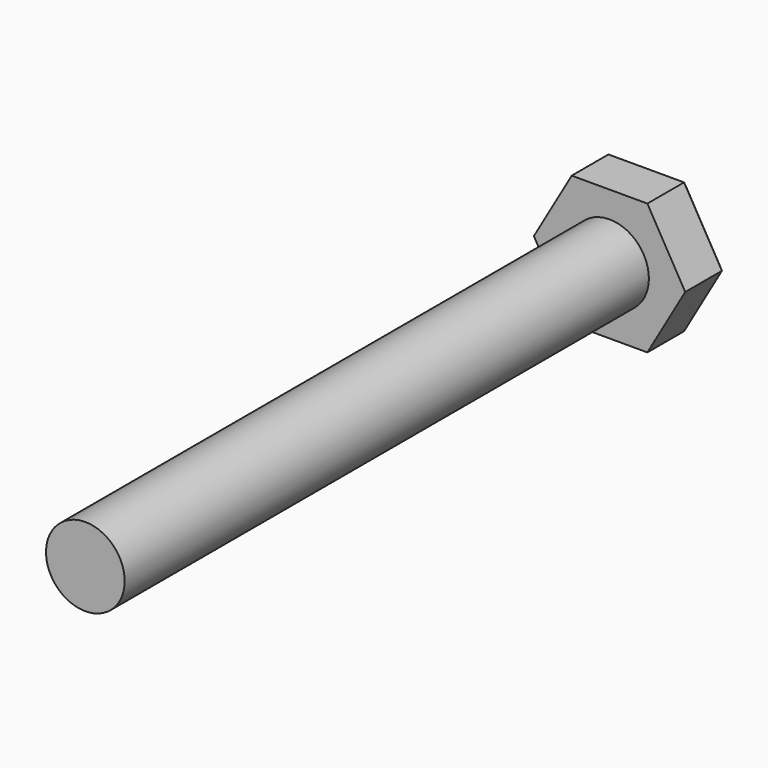
from build123d import *

# Parameters (mm, degrees)
F1_DEPTH = 4
F2_R     = 3
F3_DEPTH = 50
F4_SIZE  = 0.5


with BuildPart() as f1:
    # F0 (on Front) → F1 (new body)
    with BuildSketch(Plane.XZ):
        Polygon((2.886751, 5), (-2.886751, 5), (-5.773503, 0), (-2.886751, -5), (2.886751, -5), (5.773503, 0), align=None)
    extrude(amount=-F1_DEPTH)

    # F2 (on face) → F3 (join)
    with BuildSketch(Plane.XZ):
        Circle(F2_R)
    extrude(amount=F3_DEPTH)

    # F4
    f4_edges = [f1.edges().sort_by_distance(p)[0] for p in [
        (4.330127, 4, 2.5),
        (0, 4, 5),
        (-4.330127, 4, 2.5),
        (-4.330127, 4, -2.5),
        (0, 4, -5),
        (4.330127, 4, -2.5),
    ]]
    chamfer(f4_edges, length=F4_SIZE)


solid = f1.part
